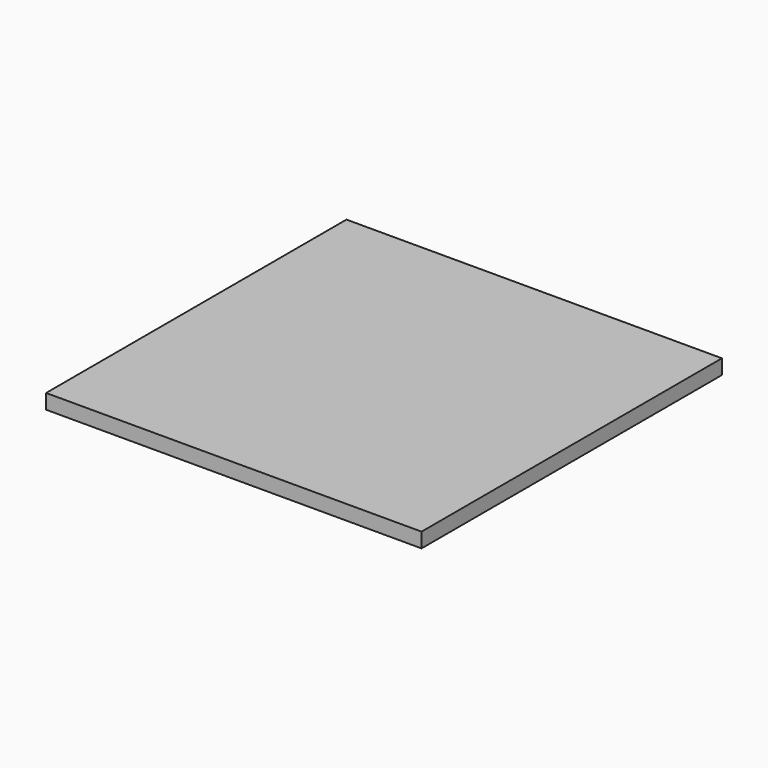
from build123d import *

# Parameters (mm, degrees)
SKETCH_W      = 152.4
SKETCH_H      = 152.4
EXTRUDE_DEPTH = 5.9944


with BuildPart() as part:
    # Sketch → Extrude (new body)
    with BuildSketch(Plane.XY):
        with Locations((-8.057668, 1.362348)):
            Rectangle(SKETCH_W, SKETCH_H)
    extrude(amount=EXTRUDE_DEPTH)


solid = part.part
